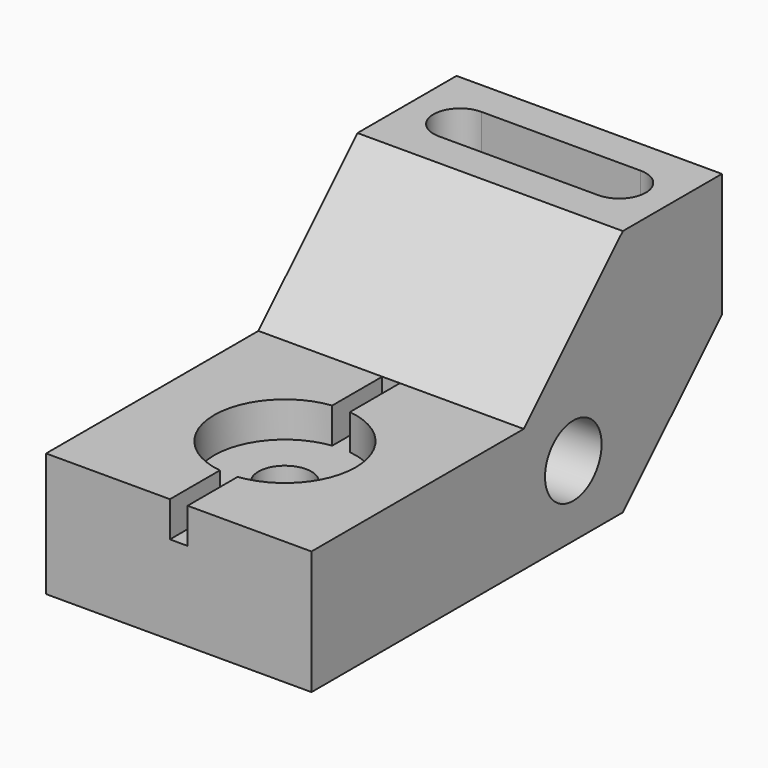
from build123d import *

# Parameters (mm, degrees)
F1_DEPTH = 76.2
F4_DEPTH = 10.16
F6_R     = 7.62
F7_DEPTH = 25.401
F2_R     = 10.16
F8_DEPTH = 76.201
F9_DEPTH = 27.94


with BuildPart() as f1:
    # F0 (on Right) → F1 (new body)
    with BuildSketch(Plane.YZ):
        Polygon((0, 35.56), (0, 0), (111.76, 0), (147.32, 35.56), (147.32, 71.12), (111.76, 71.12), (76.2, 35.56), align=None)
    extrude(amount=F1_DEPTH)

    # F3 (on face) → F4 (cut)
    with BuildSketch(Plane.XY.offset(35.56)):
        with BuildLine():
            Line((35.56, 76.2), (35.56, 58.260625))
            ThreePointArc((35.56, 58.260625), (17.78, 38.1), (35.56, 17.939375))
            Line((35.56, 17.939375), (35.56, 0))
            Line((35.56, 0), (40.64, 0))
            Line((40.64, 0), (40.64, 17.939375))
            ThreePointArc((40.64, 17.939375), (58.42, 38.1), (40.64, 58.260625))
            Line((40.64, 58.260625), (40.64, 76.2))
            Line((40.64, 76.2), (35.56, 76.2))
        make_face()
    extrude(amount=-F4_DEPTH, mode=Mode.SUBTRACT)

    # F6 (on face) → F7 (cut, through all)
    with BuildSketch(Plane.XY.offset(25.4)):
        with Locations((38.1, 38.1)):
            Circle(F6_R)
    extrude(amount=-F7_DEPTH, mode=Mode.SUBTRACT)

    # F2 (on face) → F8 (cut, through all)
    with BuildSketch(Plane.YZ.offset(76.2)):
        with Locations((93.98, 20.32)):
            Circle(F2_R)
    extrude(amount=-F8_DEPTH, mode=Mode.SUBTRACT)

    # F5 (on face) → F9 (cut)
    with BuildSketch(Plane.XY.offset(71.12)):
        with BuildLine():
            Line((60.96, 137.16), (15.24, 137.16))
            ThreePointArc((15.24, 137.16), (7.62, 129.54), (15.24, 121.92))
            Line((15.24, 121.92), (60.96, 121.92))
            ThreePointArc((60.96, 121.92), (68.58, 129.54), (60.96, 137.16))
        make_face()
    extrude(amount=-F9_DEPTH, mode=Mode.SUBTRACT)


solid = f1.part
